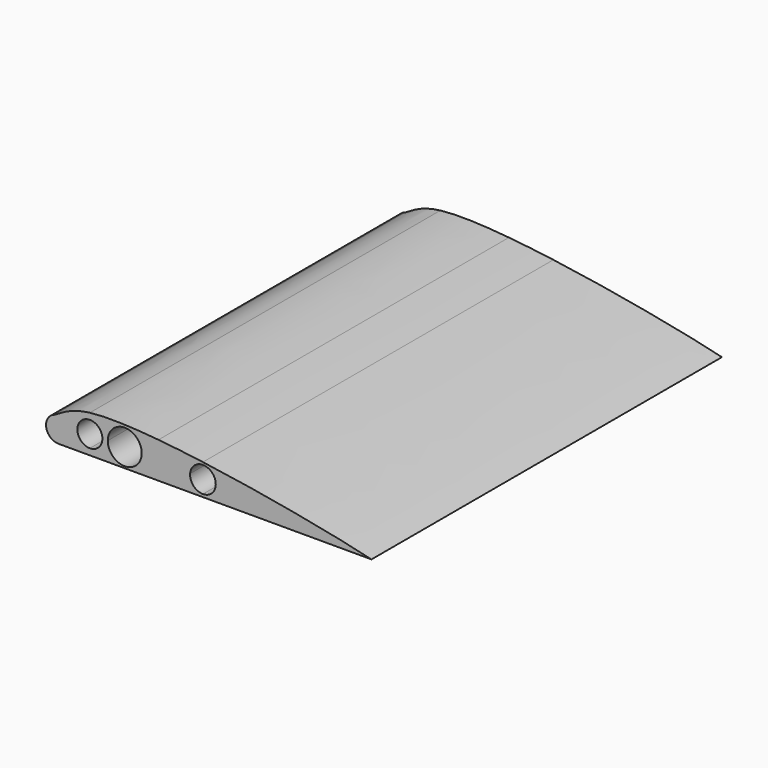
from build123d import *

# Parameters (mm, degrees)
F1_DEPTH = 140


with BuildPart() as f1:
    # F0 (on Front) → F1 (new body)
    with BuildSketch(Plane.XZ):
        with BuildLine():
            Line((8.9058858157, 0), (8.9058858157, -4))
            ThreePointArc((8.9058858157, -4), (11.7343129405, -2.8284271247), (12.9058858157, 0))
            ThreePointArc((12.9058858157, 0), (11.7343129405, 2.8284271247), (8.9058858157, 4))
            Line((8.9058858157, 4), (8.9058858157, 0))
        make_face()
        with BuildLine():
            ThreePointArc((6.8931616097, 3.4567240663), (5.0440924328, -1.0423779868), (8.9058858157, -4))
            Line((8.9058858157, -4), (8.9058858157, 0))
            Line((8.9058858157, 0), (8.9058858157, 4))
            ThreePointArc((8.9058858157, 4), (8.3056033579, 3.9547011228), (7.7189169607, 3.8198304854))
            add(Edge.make_bspline(
                [(6.8931616097, 3.4567240663), (7.1671692641, 3.5526761618), (7.4395796175, 3.6757769611), (7.7189169607, 3.8198304854)],
                knots=[0, 0, 0, 0, 0.0319560574, 0.0319560574, 0.0319560574, 0.0319560574], degree=3))
        make_face()
        with BuildLine():
            ThreePointArc((12.9058858157, 0), (11.7343129405, -2.8284271247), (8.9058858157, -4))
            Line((8.9058858157, -4), (18.9058858157, -4))
            Line((18.9058858157, -4), (18.9058858157, -2))
            ThreePointArc((18.9058858157, -2), (14.9058858157, 2), (18.9058858157, 6))
            Line((18.9058858157, 6), (18.9058858157, 8))
            add(Edge.make_bspline(
                [(7.7189169607, 3.8198304854), (9.8286439453, 4.9078110756), (12.3335000762, 7.1909763912), (18.9058858157, 8)],
                knots=[0.0319560574, 0.0319560574, 0.0319560574, 0.0319560574, 0.2733078071, 0.2733078071, 0.2733078071, 0.2733078071], degree=3))
            ThreePointArc((7.7189169607, 3.8198304854), (8.3056033579, 3.9547011228), (8.9058858157, 4))
            ThreePointArc((8.9058858157, 4), (11.7343129405, 2.8284271247), (12.9058858157, 0))
        make_face()
        with BuildLine():
            Line((18.9058858157, -2), (18.9058858157, -4))
            Line((18.9058858157, -4), (40.8326969018, -4))
            Line((40.8326969018, -4), (40.8326969018, 2))
            Line((40.8326969018, 2), (35.4772553119, 2))
            ThreePointArc((35.4772553119, 2), (30.0540197641, -3.4232355478), (24.6307842162, 2))
            Line((24.6307842162, 2), (22.9058858157, 2))
            ThreePointArc((22.9058858157, 2), (21.7343129405, -0.8284271247), (18.9058858157, -2))
        make_face()
        with BuildLine():
            Line((40.8326969018, 2), (40.8326969018, -4))
            Line((40.8326969018, -4), (44.5024557412, -4))
            Line((44.5024557412, -4), (55.0356768072, -4))
            Line((55.0356768072, -4), (55.0356768072, -3.133680116))
            ThreePointArc((55.0356768072, -3.133680116), (52.0303793302, -1.82467816), (50.9420263678, 1.267374051))
            Line((50.9420263678, 1.267374051), (40.8326969018, 2))
        make_face()
        with BuildLine():
            Line((55.0356768072, -3.133680116), (55.0356768072, -4))
            Line((55.0356768072, -4), (108.9058858157, -4))
            add(Edge.make_bspline(
                [(55.0356768072, 5.8651734237), (76.9848989248, 2.9093856947), (100.7531405588, -1.8890320981), (108.9058858157, -4)],
                knots=[0.5626736041, 0.5626736041, 0.5626736041, 0.5626736041, 1, 1, 1, 1], degree=3))
            Line((55.0356768072, 5.8651734237), (55.0356768072, 5.0750922212))
            ThreePointArc((55.0356768072, 5.0750922212), (57.9379160996, 3.872945345), (59.1400629758, 0.9707060526))
            ThreePointArc((59.1400629758, 0.9707060526), (57.9379160996, -1.9315332398), (55.0356768072, -3.133680116))
        make_face()
        with BuildLine():
            Line((35.4772553119, 2), (40.8326969018, 2))
            Line((40.8326969018, 2), (40.8326969018, 7.5159238008))
            add(Edge.make_bspline(
                [(18.9058858157, 8), (24.1332424557, 8.6434581142), (31.9336530673, 8.3543978355), (40.8326969018, 7.5159238008)],
                knots=[0.2733078071, 0.2733078071, 0.2733078071, 0.2733078071, 0.4652672753, 0.4652672753, 0.4652672753, 0.4652672753], degree=3))
            Line((18.9058858157, 8), (18.9058858157, 6))
            ThreePointArc((18.9058858157, 6), (21.7343129405, 4.8284271247), (22.9058858157, 2))
            Line((22.9058858157, 2), (24.6307842162, 2))
            ThreePointArc((24.6307842162, 2), (30.0540197641, 7.4232355478), (35.4772553119, 2))
        make_face()
        with BuildLine():
            Line((40.8326969018, 7.5159238008), (40.8326969018, 2))
            Line((40.8326969018, 2), (50.9420263678, 1.267374051))
            ThreePointArc((50.9420263678, 1.267374051), (52.2402925946, 3.9760035296), (55.0356768072, 5.0750922212))
            Line((55.0356768072, 5.0750922212), (55.0356768072, 5.8651734237))
            add(Edge.make_bspline(
                [(40.8326969018, 7.5159238008), (45.3483542836, 7.0904554545), (50.1468954165, 6.5235202192), (55.0356768072, 5.8651734237)],
                knots=[0.4652672753, 0.4652672753, 0.4652672753, 0.4652672753, 0.5626736041, 0.5626736041, 0.5626736041, 0.5626736041], degree=3))
        make_face()
        with BuildLine():
            Line((40.8326969018, 2), (40.8326969018, -4))
            Line((40.8326969018, -4), (44.5024557412, -4))
            Line((44.5024557412, -4), (55.0356768072, -4))
            Line((55.0356768072, -4), (55.0356768072, -3.133680116))
            ThreePointArc((55.0356768072, -3.133680116), (52.0303793302, -1.82467816), (50.9420263678, 1.267374051))
            Line((50.9420263678, 1.267374051), (40.8326969018, 2))
        make_face()
    extrude(amount=F1_DEPTH)


solid = f1.part
